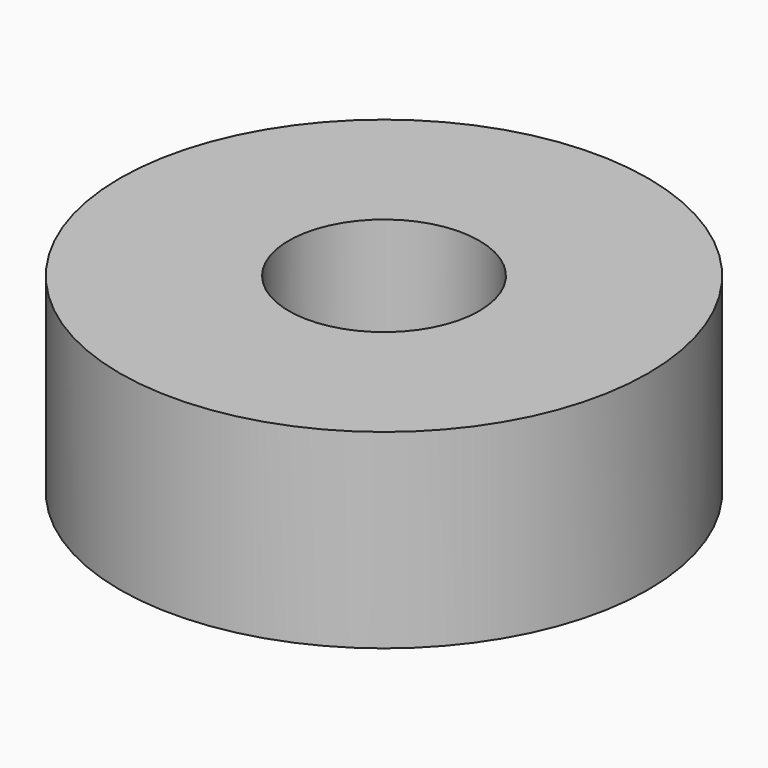
from build123d import *

# Parameters (mm, degrees)
CYLINDER007_R     = 11
CYLINDER007_DEPTH = 22
CYLINDER006_R     = 30.5
CYLINDER006_DEPTH = 22


with BuildPart() as cylinder007:
    # Cylinder007 → Cylinder007 (new body)
    with BuildSketch(Plane.XY):
        Circle(CYLINDER007_R)
    extrude(amount=CYLINDER007_DEPTH)


with BuildPart() as obj1:
    # Cylinder006 → Cylinder006 (new body)
    with BuildSketch(Plane.XY):
        Circle(CYLINDER006_R)
    extrude(amount=CYLINDER006_DEPTH)

    # Cut006: cut Cylinder007
    add(cylinder007.part, mode=Mode.SUBTRACT)


with BuildPart() as obj1_1:
    # Cut006 placement: moved
    add(obj1.part.moved(Location((51.5, 17, 2))))


solid = obj1_1.part
